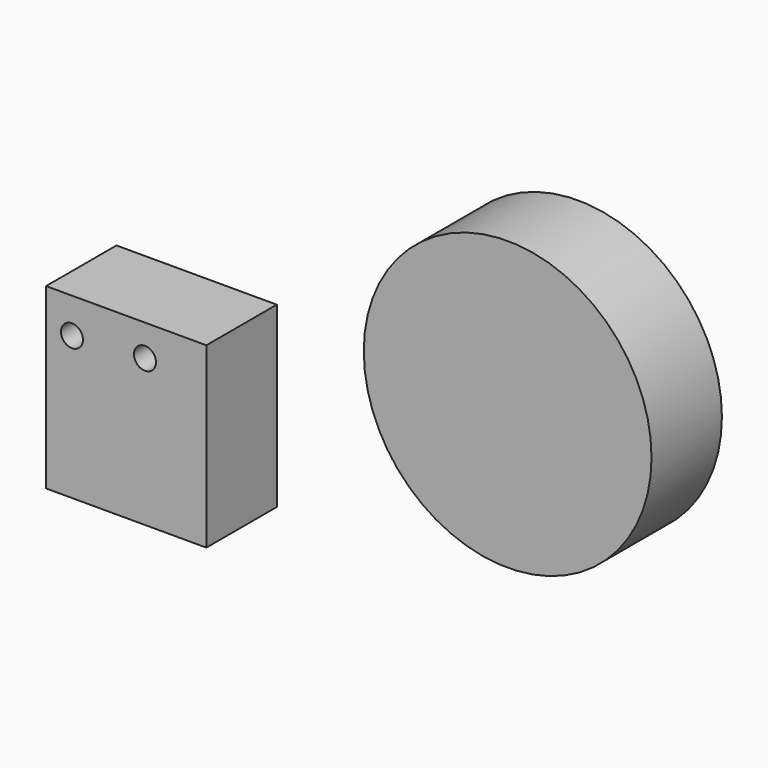
from build123d import *

# Parameters (mm, degrees)
F0_W     = 46.2730694562
F0_H     = 51.4349984005
F1_DEPTH = 25.4
F3_D     = 6.35
F3_DEPTH = 12.7
F3_TIP   = 1.9077324654
F4_R     = 41.5364849157
F5_DEPTH = 25.4


with BuildPart() as f1:
    # F0 (on Front) → F1 (new body)
    with BuildSketch(Plane.XZ):
        with Locations((-41.5720185265, 12.2595964931)):
            Rectangle(F0_W, F0_H)
    extrude(amount=F1_DEPTH)

    # F3
    with Locations(Plane.XZ.offset(25.4)):
        with Locations((-57.2400018573, 27.7845785022), (-36.157079041, 28.91189605)):
            Hole(F3_D / 2, depth=F3_DEPTH)
            with Locations((0, 0, -(F3_DEPTH + F3_TIP / 2))):  # 118° drill point
                Cone(0, F3_D / 2, F3_TIP, mode=Mode.SUBTRACT)


with BuildPart() as f5:
    # F4 (on Front) → F5 (new body)
    with BuildSketch(Plane.XZ):
        with Locations((68.5430243611, 51.2580573559)):
            Circle(F4_R)
    extrude(amount=F5_DEPTH)


solid = Compound([f1.part, f5.part])
